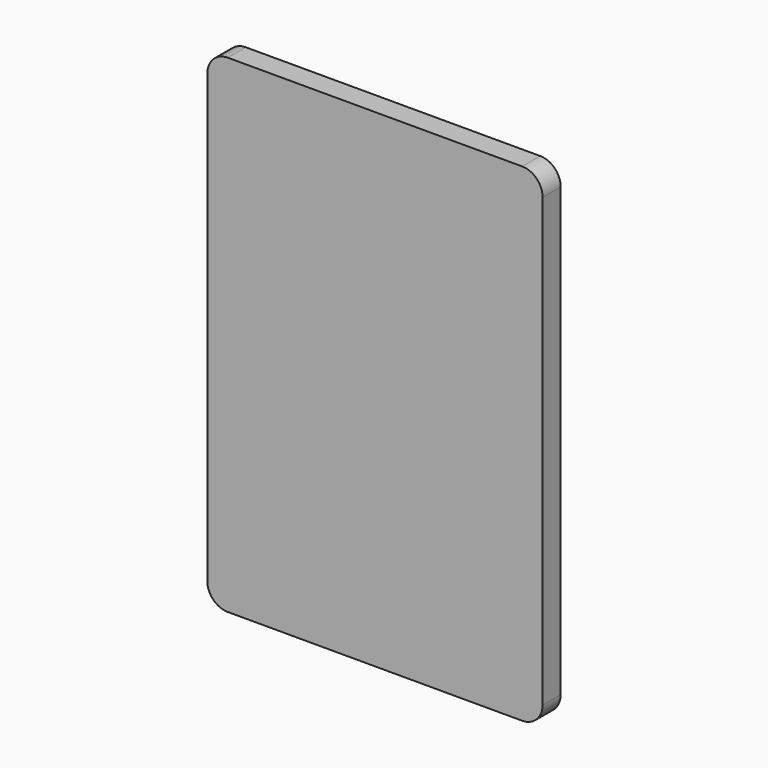
from build123d import *

# Parameters (mm, degrees)
F1_DEPTH = 3.5


with BuildPart() as f1:
    # F0 (on Front) → F1 (new body, symmetric)
    with BuildSketch(Plane.XZ):
        with BuildLine():
            Line((45.681502, 75.720593), (-45.681502, 75.720593))
            ThreePointArc((-45.681502, 75.720593), (-50.17163, 73.860721), (-52.031502, 69.370593))
            Line((-52.031502, 69.370593), (-52.031502, -69.370593))
            ThreePointArc((-52.031502, -69.370593), (-50.17163, -73.860721), (-45.681502, -75.720593))
            Line((-45.681502, -75.720593), (45.681502, -75.720593))
            ThreePointArc((45.681502, -75.720593), (50.17163, -73.860721), (52.031502, -69.370593))
            Line((52.031502, -69.370593), (52.031502, 69.370593))
            ThreePointArc((52.031502, 69.370593), (50.17163, 73.860721), (45.681502, 75.720593))
        make_face()
    extrude(amount=F1_DEPTH, both=True)


solid = f1.part
